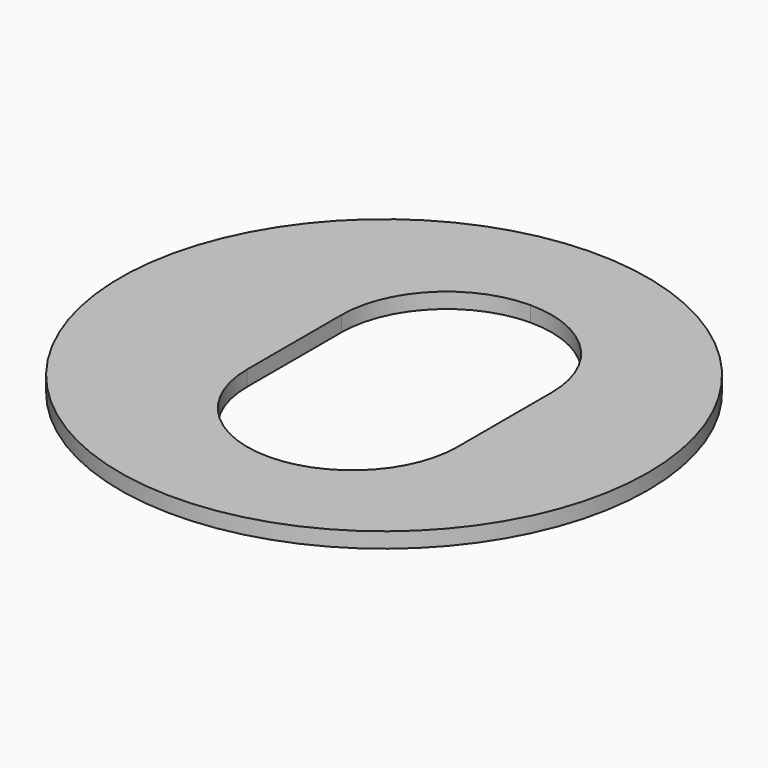
from build123d import *

# Parameters (mm, degrees)
F0_R     = 51.5
F1_DEPTH = 3


with BuildPart() as f1:
    # F0 (on Top) → F1 (new body)
    with BuildSketch(Plane.XY):
        Circle(F0_R)
        with BuildLine():
            Line((23.5, 11.5), (23.5, -11.5))
            ThreePointArc((23.5, -11.5), (17.495689, -25.995689), (3, -32))
            ThreePointArc((3, -32), (-11.495689, -25.995689), (-17.5, -11.5))
            Line((-17.5, -11.5), (-17.5, 11.5))
            ThreePointArc((-17.5, 11.5), (-11.495689, 25.995689), (3, 32))
            ThreePointArc((3, 32), (17.495689, 25.995689), (23.5, 11.5))
        make_face(mode=Mode.SUBTRACT)
    extrude(amount=F1_DEPTH)


solid = f1.part
